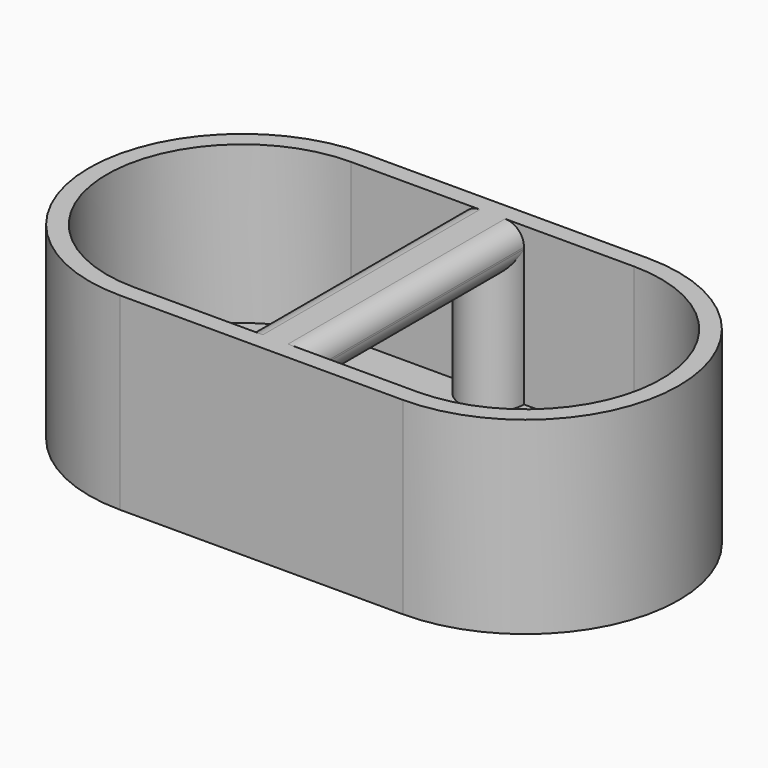
from build123d import *

# Parameters (mm, degrees)
F1_DEPTH        = 2
F3_DEPTH        = 10
F5_DEPTH        = 10
F8_DEPTH        = 2.5
F9_R            = 1.2
F11_D           = 3.2
F11_DEPTH       = 4.5
F11_CSINK_D     = 6
F11_CSINK_ANGLE = 90
F11_TIP         = 0.9613769904


with BuildPart() as f1:
    # F0 (on Top) → F1 (new body)
    with BuildSketch(Plane.XY):
        with BuildLine():
            Line((9, 9.75), (-9, 9.75))
            ThreePointArc((-9, 9.75), (-18.75, 0), (-9, -9.75))
            Line((-9, -9.75), (9, -9.75))
            ThreePointArc((9, -9.75), (18.75, 0), (9, 9.75))
        make_face()
    extrude(amount=F1_DEPTH)

    # F2 (on face) → F3 (join)
    with BuildSketch(Plane.XY.offset(2)):
        with BuildLine():
            Line((9, 9.75), (-9, 9.75))
            ThreePointArc((-9, 9.75), (-18.75, 0), (-9, -9.75))
            Line((-9, -9.75), (9, -9.75))
            ThreePointArc((9, -9.75), (18.75, 0), (9, 9.75))
        make_face()
        with BuildLine():
            ThreePointArc((9, 8.625), (17.625, 0), (9, -8.625))
            Line((9, -8.625), (-9, -8.625))
            ThreePointArc((-9, -8.625), (-17.625, 0), (-9, 8.625))
            Line((-9, 8.625), (9, 8.625))
        make_face(mode=Mode.SUBTRACT)
    extrude(amount=F3_DEPTH)

    # F4 (on face) → F5 (join)
    with BuildSketch(Plane.XY.offset(2)):
        with BuildLine():
            Line((2, 8.625), (-2, 8.625))
            ThreePointArc((-2, 8.625), (0, 6.625), (2, 8.625))
        make_face()
        with BuildLine():
            Line((-2, -8.625), (2, -8.625))
            ThreePointArc((2, -8.625), (0, -6.625), (-2, -8.625))
        make_face()
    extrude(amount=F5_DEPTH)

    # F7 (on offset) → F8 (join)
    with BuildSketch(Plane.XY.offset(9.5)):
        with BuildLine():
            ThreePointArc((2, 8.625), (0, 6.625), (-2, 8.625))
            Line((-2, 8.625), (-2, -8.625))
            ThreePointArc((-2, -8.625), (0, -6.625), (2, -8.625))
            Line((2, -8.625), (2, 8.625))
        make_face()
    extrude(amount=F8_DEPTH)

    # F9
    f9_edges = [f1.edges().sort_by_distance(p)[0] for p in [
        (2, 0, 12),
        (-2, 0, 12),
        (-2, 0, 9.5),
        (2, 0, 9.5),
    ]]
    fillet(f9_edges, radius=F9_R)

    # F11
    with Locations(Plane.XY.offset(2)):
        with Locations((-9, 0), (9, 0)):
            CounterSinkHole(F11_D / 2, F11_CSINK_D / 2, depth=F11_DEPTH, counter_sink_angle=F11_CSINK_ANGLE)
            with Locations((0, 0, -(F11_DEPTH + F11_TIP / 2))):  # 118° drill point
                Cone(0, F11_D / 2, F11_TIP, mode=Mode.SUBTRACT)


solid = f1.part
